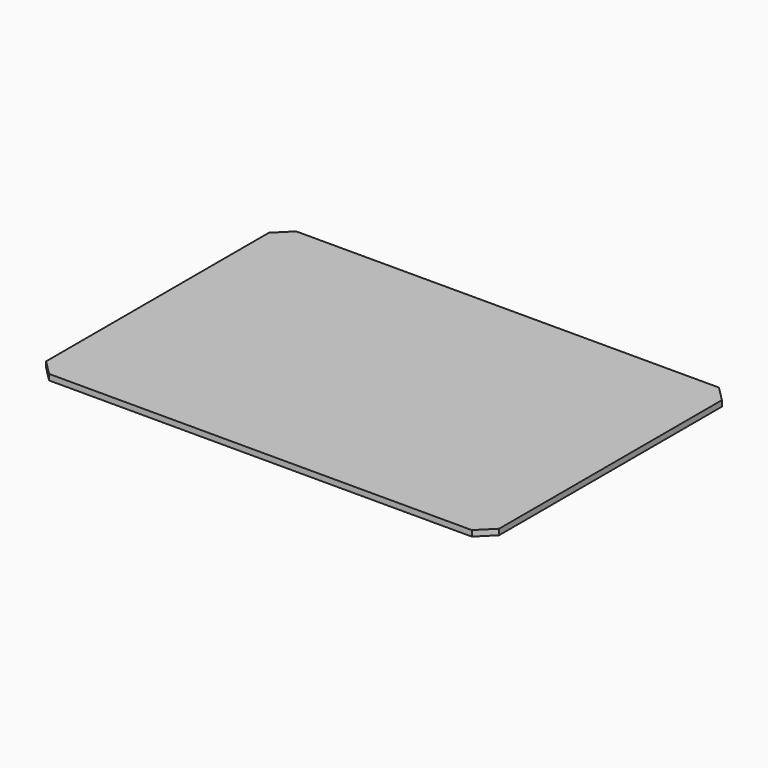
from build123d import *

# Parameters (mm, degrees)
F0_W     = 314
F0_H     = 214
F1_DEPTH = 4
F2_SIZE  = 10.5


with BuildPart() as f1:
    # F0 (on Top) → F1 (new body)
    with BuildSketch(Plane.XY):
        Rectangle(F0_W, F0_H)
    extrude(amount=F1_DEPTH)

    # F2
    f2_edges = [f1.edges().sort_by_distance(p)[0] for p in [
        (-157, -107, 2),
        (157, -107, 2),
        (157, 107, 2),
        (-157, 107, 2),
    ]]
    chamfer(f2_edges, length=F2_SIZE)


solid = f1.part
